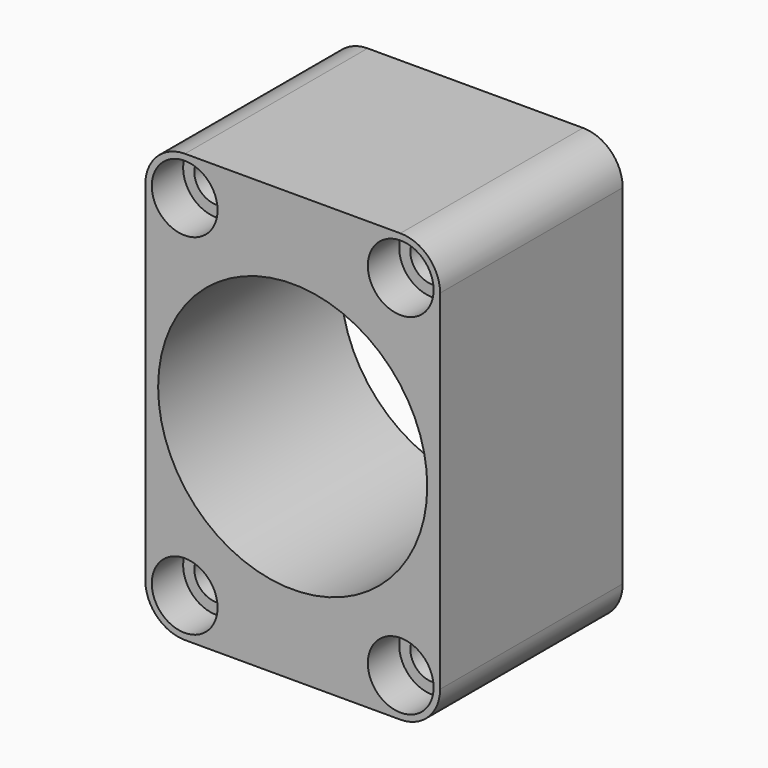
from build123d import *

# Parameters (mm, degrees)
F0_W     = 63.86
F0_H     = 92.75
F1_DEPTH = 49.45
F2_R     = 8.6
F3_R     = 4.705062
F4_DEPTH = 54.1
F5_R     = 7.125
F6_DEPTH = 8.5
F7_R     = 29.15
F8_DEPTH = 69.1


with BuildPart() as f1:
    # F0 (on Front) → F1 (new body)
    with BuildSketch(Plane.XZ):
        Rectangle(F0_W, F0_H)
    extrude(amount=F1_DEPTH)

    # F2
    f2_edges = [f1.edges().sort_by_distance(p)[0] for p in [
        (31.93, -24.725, 46.375),
        (-31.93, -24.725, 46.375),
        (-31.93, -24.725, -46.375),
        (31.93, -24.725, -46.375),
    ]]
    fillet(f2_edges, radius=F2_R)

    # F3 (on face) → F4 (cut)
    with BuildSketch(Plane.XZ.offset(49.45)):
        with Locations((-23.4, 37.9)):
            Circle(F3_R)
        with Locations((23.4, 37.9)):
            Circle(F3_R)
        with Locations((-23.4, -37.9)):
            Circle(F3_R)
        with Locations((23.4, -37.9)):
            Circle(F3_R)
    extrude(amount=-F4_DEPTH, mode=Mode.SUBTRACT)

    # F5 (on face) → F6 (cut)
    with BuildSketch(Plane.XZ.offset(49.45)):
        with Locations((-23.4, 37.9)):
            Circle(F5_R)
        with Locations((23.4, 37.9)):
            Circle(F5_R)
        with Locations((-23.4, -37.9)):
            Circle(F5_R)
        with Locations((23.4, -37.9)):
            Circle(F5_R)
    extrude(amount=-F6_DEPTH, mode=Mode.SUBTRACT)

    # F7 (on face) → F8 (cut)
    with BuildSketch(Plane.XZ.offset(49.45)):
        Circle(F7_R)
    extrude(amount=-F8_DEPTH, mode=Mode.SUBTRACT)


solid = f1.part
